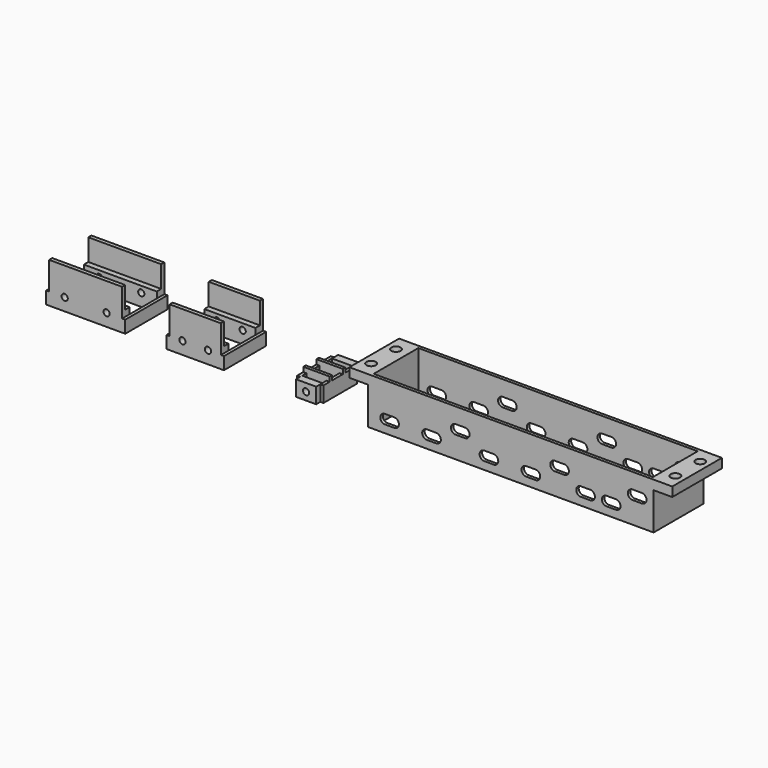
from build123d import *

# Parameters (mm, degrees)
F0_W      = 25.5
F0_H      = 17
F0_W_2    = 23.5
F0_H_2    = 14.5
F0_W_3    = 18.5
F0_W_4    = 16.5
F1_DEPTH  = 13
F2_W      = 23.5
F2_H      = 1.8
F2_W_2    = 16.5
F3_DEPTH  = 6
F4_W      = 1
F4_H      = 17
F5_DEPTH  = 9
F7_DEPTH  = 5
F8_R      = 1
F9_DEPTH  = 25
F10_W     = 8.5
F10_H     = 1
F11_DEPTH = 6.5
F12_W     = 92
F12_H     = 20
F12_W_2   = 90
F12_H_2   = 18
F13_DEPTH = 15
F14_W     = 6
F14_H     = 20
F14_R     = 1.5
F15_DEPTH = 3
F17_DEPTH = 25


with BuildPart() as f1:
    # F0 (on Top) → F1 (new body)
    with BuildSketch(Plane.XY):
        Rectangle(F0_W, F0_H)
        Rectangle(F0_W_2, F0_H_2, mode=Mode.SUBTRACT)
        with Locations((35.301113, 0)):
            Rectangle(F0_W_3, F0_H)
        with Locations((35.301113, 0)):
            Rectangle(F0_W_4, F0_H_2, mode=Mode.SUBTRACT)
    extrude(amount=F1_DEPTH)

    # F2 (on Top) → F3 (join)
    with BuildSketch(Plane.XY):
        with Locations((0, 6.35)):
            Rectangle(F2_W, F2_H)
        with Locations((0, -6.35)):
            Rectangle(F2_W, F2_H)
        with Locations((35.301113, 6.35)):
            Rectangle(F2_W_2, F2_H)
        with Locations((35.301113, -6.35)):
            Rectangle(F2_W_2, F2_H)
    extrude(amount=F3_DEPTH)

    # F4 (on face) → F5 (cut)
    with BuildSketch(Plane.XY.offset(13)):
        with Locations((-12.25, 0)):
            Rectangle(F4_W, F4_H)
        with Locations((12.25, 0)):
            Rectangle(F4_W, F4_H)
        with Locations((26.551113, 0)):
            Rectangle(F4_W, F4_H)
        with Locations((44.051113, 0)):
            Rectangle(F4_W, F4_H)
    extrude(amount=-F5_DEPTH, mode=Mode.SUBTRACT)


with BuildPart() as f7:
    # F6 (on Top) → F7 (new body)
    with BuildSketch(Plane.XY):
        Polygon((67.753377, -6.8), (67.753377, -8.5), (74.253377, -8.5), (74.253377, -6.8), (74.253377, -6), (67.753377, -6), align=None)
        Polygon((66.753377, -6.8), (67.753377, -6.8), (67.753377, -6), (67.753377, 6), (67.753377, 6.8), (66.753377, 6.8), align=None)
        Polygon((74.253377, -6), (74.253377, -6.8), (75.253377, -6.8), (75.253377, 6.8), (74.253377, 6.8), (74.253377, 6), align=None)
        Polygon((67.753377, 6.8), (67.753377, 6), (74.253377, 6), (74.253377, 6.8), (74.253377, 8.5), (67.753377, 8.5), align=None)
    extrude(amount=F7_DEPTH)


with BuildPart() as f9_tool:
    # F8 (on face) → F9 (new body)
    with BuildSketch(Plane.XZ.offset(8.5)):
        with Locations((-6.75, 4)):
            Circle(F8_R)
        with Locations((6.75, 4)):
            Circle(F8_R)
        with Locations((31.176113, 4)):
            Circle(F8_R)
        with Locations((39.426113, 4)):
            Circle(F8_R)
        with Locations((71.003377, 2.5)):
            Circle(F8_R)
    extrude(amount=-F9_DEPTH)


with BuildPart() as f1_1:
    add(f1.part)

    # F9: cut by f9_tool
    add(f9_tool.part, mode=Mode.SUBTRACT)


with BuildPart() as f7_1:
    add(f7.part)

    # F9: cut by f9_tool
    add(f9_tool.part, mode=Mode.SUBTRACT)

    # F10 (on Top) → F11 (join)
    with BuildSketch(Plane.XY):
        with Locations((71.003377, 1.5)):
            Rectangle(F10_W, F10_H)
        with Locations((71.003377, -3.8)):
            Rectangle(F10_W, F10_H)
    extrude(amount=F11_DEPTH)


with BuildPart() as f13:
    # F12 (on Top) → F13 (new body)
    with BuildSketch(Plane.XY):
        with Locations((138.174921, 0)):
            Rectangle(F12_W, F12_H)
        with Locations((138.174921, 0)):
            Rectangle(F12_W_2, F12_H_2, mode=Mode.SUBTRACT)
    extrude(amount=F13_DEPTH)

    # F14 (on face) → F15 (join)
    with BuildSketch(Plane.XY.offset(15)):
        with Locations((89.174921, 0)):
            Rectangle(F14_W, F14_H)
        with Locations((89.174921, -5)):
            Circle(F14_R, mode=Mode.SUBTRACT)
        with Locations((89.174921, 5)):
            Circle(F14_R, mode=Mode.SUBTRACT)
        with Locations((187.174921, 0)):
            Rectangle(F14_W, F14_H)
        with Locations((187.174921, -5)):
            Circle(F14_R, mode=Mode.SUBTRACT)
        with Locations((187.174921, 5)):
            Circle(F14_R, mode=Mode.SUBTRACT)
    extrude(amount=-F15_DEPTH)

    # F16 (on face) → F17 (cut)
    with BuildSketch(Plane.XZ.offset(10)):
        with BuildLine():
            Line((97.728986, 2.5), (100.728986, 2.5))
            ThreePointArc((100.728986, 2.5), (102.121831, 4.052151), (100.620857, 5.5))
            Line((100.620857, 5.5), (97.620857, 5.5))
            ThreePointArc((97.620857, 5.5), (96.119883, 3.943952), (97.728986, 2.5))
        make_face()
        with BuildLine():
            Line((111.22899, 2.498051), (114.22899, 2.498051))
            ThreePointArc((114.22899, 2.498051), (115.621827, 4.050206), (114.120853, 5.498051))
            Line((114.120853, 5.498051), (111.120853, 5.498051))
            ThreePointArc((111.120853, 5.498051), (109.619879, 3.941999), (111.22899, 2.498051))
        make_face()
        with BuildLine():
            Line((129.72899, 2.496102), (132.72899, 2.496102))
            ThreePointArc((132.72899, 2.496102), (134.121827, 4.048257), (132.620853, 5.496102))
            Line((132.620853, 5.496102), (129.620853, 5.496102))
            ThreePointArc((129.620853, 5.496102), (128.119879, 3.94005), (129.72899, 2.496102))
        make_face()
        with BuildLine():
            Line((143.22899, 2.494153), (146.22899, 2.494153))
            ThreePointArc((146.22899, 2.494153), (147.621827, 4.046308), (146.120853, 5.494153))
            Line((146.120853, 5.494153), (143.120853, 5.494153))
            ThreePointArc((143.120853, 5.494153), (141.619879, 3.938101), (143.22899, 2.494153))
        make_face()
        with BuildLine():
            Line((160.854023, 2.492205), (163.854023, 2.492205))
            ThreePointArc((163.854023, 2.492205), (165.246795, 4.04439), (163.745819, 5.492205))
            Line((163.745819, 5.492205), (160.745819, 5.492205))
            ThreePointArc((160.745819, 5.492205), (159.244844, 3.936116), (160.854023, 2.492205))
        make_face()
        with BuildLine():
            Line((169.104023, 2.490253), (172.104023, 2.490253))
            ThreePointArc((172.104023, 2.490253), (173.496795, 4.042439), (171.995819, 5.490253))
            Line((171.995819, 5.490253), (168.995819, 5.490253))
            ThreePointArc((168.995819, 5.490253), (167.494844, 3.934165), (169.104023, 2.490253))
        make_face()
        with BuildLine():
            Line((120.479023, 7), (123.479023, 7))
            ThreePointArc((123.479023, 7), (124.871795, 8.552186), (123.370819, 10))
            Line((123.370819, 10), (120.370819, 10))
            ThreePointArc((120.370819, 10), (118.869844, 8.443912), (120.479023, 7))
        make_face()
        with BuildLine():
            Line((152.479027, 7), (155.479027, 7))
            ThreePointArc((155.479027, 7), (156.871791, 8.552189), (155.370815, 10))
            Line((155.370815, 10), (152.370815, 10))
            ThreePointArc((152.370815, 10), (150.86984, 8.443907), (152.479027, 7))
        make_face()
        with BuildLine():
            Line((177.479027, 7), (180.479027, 7))
            ThreePointArc((180.479027, 7), (181.871791, 8.55219), (180.370815, 10))
            Line((180.370815, 10), (177.370815, 10))
            ThreePointArc((177.370815, 10), (175.86984, 8.443907), (177.479027, 7))
        make_face()
    extrude(amount=-F17_DEPTH, mode=Mode.SUBTRACT)


solid = Compound([f1_1.part, f7_1.part, f13.part])
